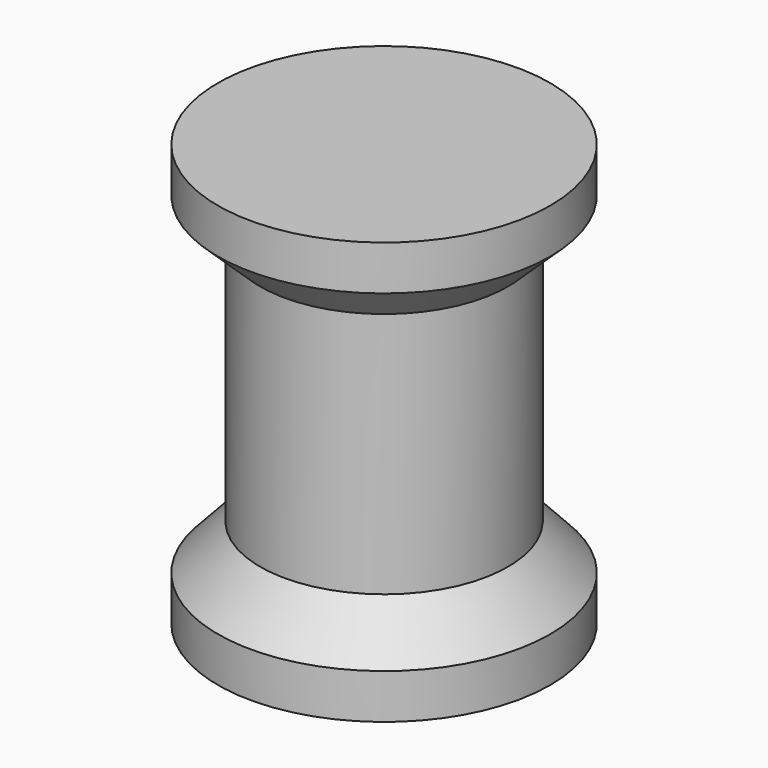
from build123d import *

# Parameters (mm, degrees)
F0_R     = 50
F1_DEPTH = 127


with BuildPart() as f1:
    # F0 (on Top) → F1 (new body)
    with BuildSketch(Plane.XY):
        Circle(F0_R)
    extrude(amount=F1_DEPTH)

    # F2 (on Front) → F3 (revolve, cut)
    with BuildSketch(Plane.XZ):
        Polygon((-50, 113.525602), (-50, 127), (-84.931674, 127), (-84.931674, 0), (-50, 0), (-50, 13.474398), (-37.3, 27.201201), (-37.3, 101.439867), align=None)
    revolve(axis=Axis((0, 0, 61.645419), (0, 0, 1)), mode=Mode.SUBTRACT)


solid = f1.part
